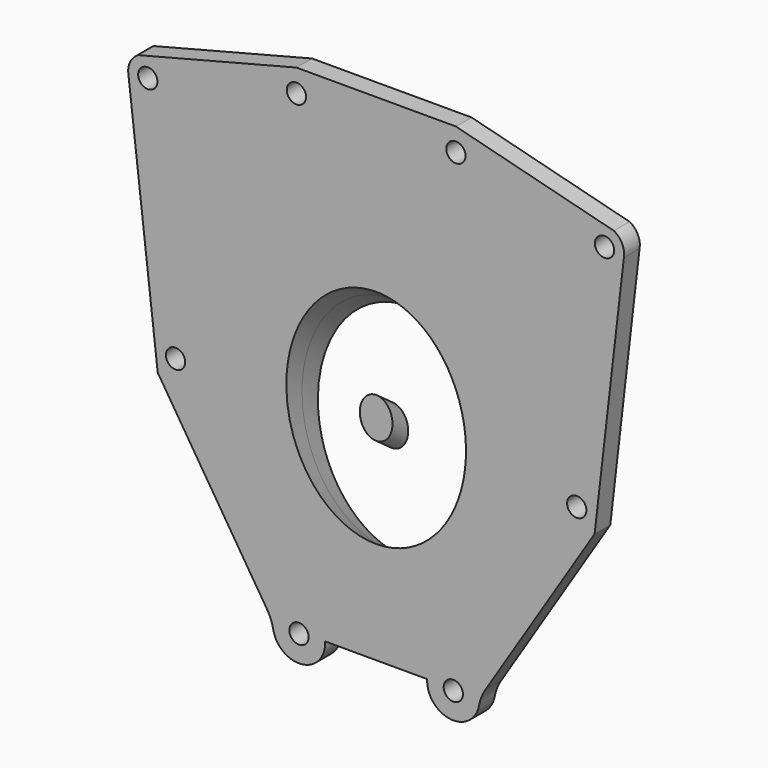
from build123d import *

# Parameters (mm, degrees)
F0_R          = 3.75
F1_DEPTH      = 7.62
F3_R          = 39.37
F3_R_2        = 34.925
F5_R          = 34.925
F5_R_2        = 6.35
F6_DEPTH      = 119.4844861947
F7_W          = 63.9946283773
F7_H          = 122.9776404798
F8_DEPTH      = 50.8
F8_DEPTH_BACK = 50.8


with BuildPart() as f1:
    # F0 (on Front) → F1 (new body)
    with BuildSketch(Plane.XZ):
        with BuildLine():
            Line((-19.8623637505, -77.4158512519), (19.8623637505, -77.4158512519))
            ThreePointArc((19.8623637505, -77.4158512519), (28.7187046808, -88.1684784598), (39.9837521989, -79.9738173344))
            ThreePointArc((39.9837521989, -79.9738173344), (40.9128966099, -76.7537922701), (42.4297843084, -73.7653273698))
            Line((42.4297843084, -73.7653273698), (84.9381992292, -6.5740980437))
            Line((84.9381992292, -6.5740980437), (96.3180937264, 91.7085113337))
            ThreePointArc((96.3180937264, 91.7085113337), (95.6439196557, 96.3009502366), (92.4302844288, 99.6502120034))
            Line((92.4302844288, 99.6502120034), (31, 115.3735667467))
            Line((31, 115.3735667467), (-31, 115.3735667467))
            Line((-31, 115.3735667467), (-92.4302844288, 99.6502120034))
            ThreePointArc((-92.4302844288, 99.6502120034), (-95.6439196557, 96.3009502366), (-96.3180937264, 91.7085113337))
            Line((-96.3180937264, 91.7085113337), (-84.9381992292, -6.5740980437))
            Line((-84.9381992292, -6.5740980437), (-42.4297843084, -73.7653273698))
            ThreePointArc((-42.4297843084, -73.7653273698), (-40.9128966099, -76.7537922701), (-39.9837521989, -79.9738173344))
            ThreePointArc((-39.9837521989, -79.9738173344), (-28.7187046808, -88.1684784598), (-19.8623637505, -77.4158512519))
        make_face()
        with Locations((-30, -78.0895954708)):
            Circle(F0_R, mode=Mode.SUBTRACT)
        with Locations((-78, 0.4604045292)):
            Circle(F0_R, mode=Mode.SUBTRACT)
        with Locations((30, -78.0895954708)):
            Circle(F0_R, mode=Mode.SUBTRACT)
        with Locations((78, 0.4604045292)):
            Circle(F0_R, mode=Mode.SUBTRACT)
        with Locations((-88.8, 92.9505526862)):
            Circle(F0_R, mode=Mode.SUBTRACT)
        with Locations((-31, 106.5)):
            Circle(F0_R, mode=Mode.SUBTRACT)
        with Locations((31, 106.5)):
            Circle(F0_R, mode=Mode.SUBTRACT)
        with BuildLine():
            ThreePointArc((85.05, 92.9505526862), (88.8, 96.7005526862), (92.55, 92.9505526862))
            ThreePointArc((92.55, 92.9505526862), (88.8, 89.2005526862), (85.05, 92.9505526862))
        make_face(mode=Mode.SUBTRACT)
    extrude(amount=F1_DEPTH)


with BuildPart() as f4:
    # F3 (on face) → F4 (new body, up to the next surface of F1)
    with BuildSketch(Plane(origin=(0, 36.8134248988, -26.7465187905), x_dir=(-1, 0, 0), z_dir=(0, 0.8090169944, -0.5877852523))):
        Circle(F3_R)
        Circle(F3_R_2, mode=Mode.SUBTRACT)
    extrude(until=Until.NEXT, target=f1.part, dir=(0, -0.8090169944, 0.5877852523))

    # F7 (on Right) → F8 (cut, two sides)
    with BuildSketch(Plane.YZ) as f8_sk:
        with Locations((39.7075130604, -16.8563146144)):
            Rectangle(F7_W, F7_H)
    extrude(amount=-F8_DEPTH, mode=Mode.SUBTRACT)
    extrude(f8_sk.sketch, amount=F8_DEPTH_BACK, mode=Mode.SUBTRACT)


with BuildPart() as f1_1:
    add(f1.part)

    # F5 (on face) → F6 (cut, through all)
    with BuildSketch(Plane(origin=(0, 36.8134248988, -26.7465187905), x_dir=(-1, 0, 0), z_dir=(0, 0.8090169944, -0.5877852523))):
        Circle(F5_R)
        Circle(F5_R_2, mode=Mode.SUBTRACT)
    extrude(amount=-F6_DEPTH, mode=Mode.SUBTRACT)


solid = Compound([f4.part, f1_1.part])
